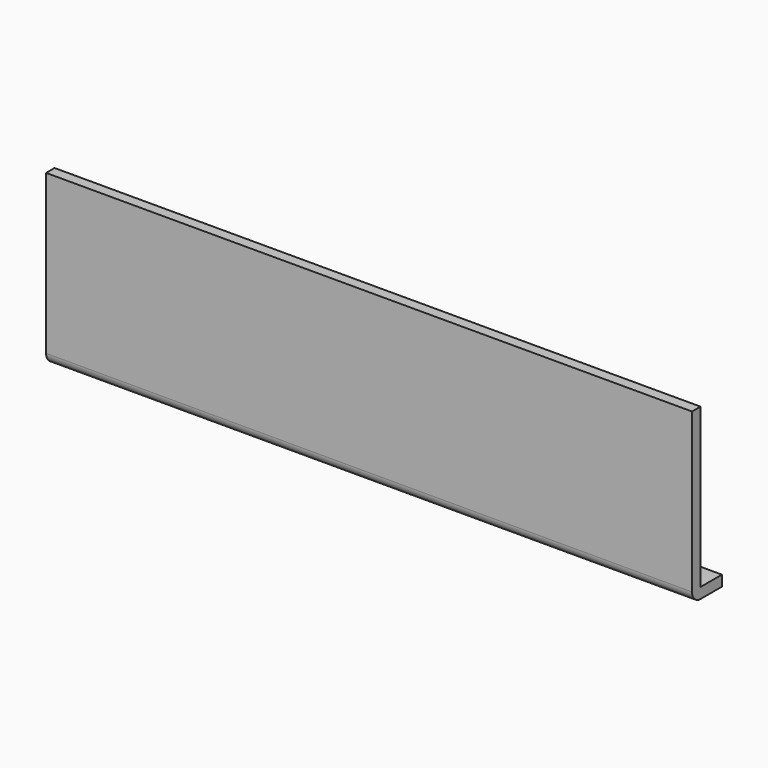
from build123d import *

# Parameters (mm, degrees)
F1_DEPTH = 610
F2_R     = 10


with BuildPart() as f1:
    # F0 (on Right) → F1 (new body)
    with BuildSketch(Plane.YZ):
        Polygon((25.316105, 0), (0, 0), (0, 120), (0, 150), (-10, 150), (-10, 120), (-10, -10), (25.316105, -10), align=None)
    extrude(amount=F1_DEPTH)

    # F2
    f2_edges = [f1.edges().sort_by_distance(p)[0] for p in [
        (305, -10, -10),
    ]]
    fillet(f2_edges, radius=F2_R)


solid = f1.part
